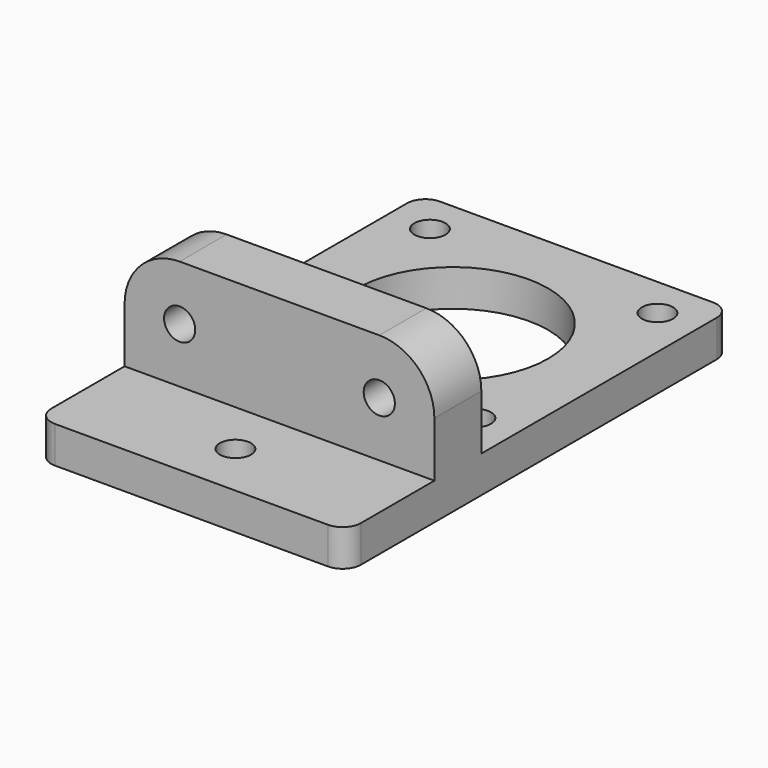
from build123d import *

# Parameters (mm, degrees)
F0_R     = 2.125
F0_R_2   = 13
F1_DEPTH = 5
F2_W     = 42.2
F2_H     = 8
F3_DEPTH = 15
F4_R     = 7.5
F5_R     = 2.125
F6_DEPTH = 23.001
F7_R     = 3.5
F8_DEPTH = 3


with BuildPart() as f1:
    # F0 (on Top) → F1 (new body)
    with BuildSketch(Plane.XY):
        with BuildLine():
            Line((18.6, 21.1), (-18.6, 21.1))
            ThreePointArc((-18.6, 21.1), (-20.367767, 20.367767), (-21.1, 18.6))
            Line((-21.1, 18.6), (-21.1, -42))
            ThreePointArc((-21.1, -42), (-20.367767, -43.767767), (-18.6, -44.5))
            Line((-18.6, -44.5), (18.6, -44.5))
            ThreePointArc((18.6, -44.5), (20.367767, -43.767767), (21.1, -42))
            Line((21.1, -42), (21.1, 18.6))
            ThreePointArc((21.1, 18.6), (20.367767, 20.367767), (18.6, 21.1))
        make_face()
        with Locations((-15.5, -15.5)):
            Circle(F0_R, mode=Mode.SUBTRACT)
        with Locations((0, -37)):
            Circle(F0_R, mode=Mode.SUBTRACT)
        with Locations((15.5, -15.5)):
            Circle(F0_R, mode=Mode.SUBTRACT)
        with Locations((-15.5, 15.5)):
            Circle(F0_R, mode=Mode.SUBTRACT)
        Circle(F0_R_2, mode=Mode.SUBTRACT)
        with Locations((15.5, 15.5)):
            Circle(F0_R, mode=Mode.SUBTRACT)
    extrude(amount=F1_DEPTH)

    # F2 (on face) → F3 (join)
    with BuildSketch(Plane.XY.offset(5)):
        with Locations((0, -25.5)):
            Rectangle(F2_W, F2_H)
    extrude(amount=F3_DEPTH)

    # F4
    f4_edges = [f1.edges().sort_by_distance(p)[0] for p in [
        (-21.1, -25.5, 20),
        (21.1, -25.5, 20),
    ]]
    fillet(f4_edges, radius=F4_R)

    # F5 (on face) → F6 (cut, through all)
    with BuildSketch(Plane(origin=(0, -21.5, 0), x_dir=(-1, 0, 0), z_dir=(0, 1, 0))):
        with Locations((-13.6, 12.5)):
            Circle(F5_R)
        with Locations((13.6, 12.5)):
            Circle(F5_R)
    extrude(amount=-F6_DEPTH, mode=Mode.SUBTRACT)

    # F7 (on face) → F8 (cut)
    with BuildSketch(Plane(origin=(0, -21.5, 0), x_dir=(-1, 0, 0), z_dir=(0, 1, 0))):
        with Locations((-13.6, 12.5)):
            Circle(F7_R)
        with Locations((13.6, 12.5)):
            Circle(F7_R)
    extrude(amount=-F8_DEPTH, mode=Mode.SUBTRACT)


solid = f1.part
